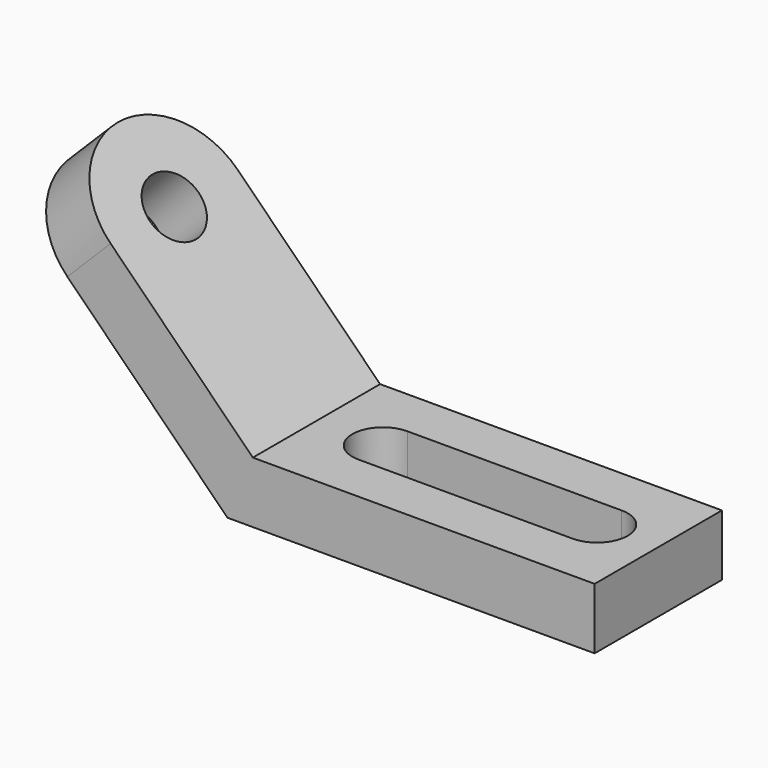
from build123d import *

# Parameters (mm, degrees)
F1_W     = 74
F1_H     = 52
F2_DEPTH = 20
F3_ANGLE = -45
F0_W     = 120
F0_H     = 52
F4_DEPTH = 20
F5_W     = 70
F5_H     = 20
F6_DEPTH = 20
F7_R     = 10
F8_DEPTH = 25


with BuildPart() as f2:
    # F1 (on face) → F2 (new body)
    with BuildSketch(Plane.XY):
        with Locations((-97, 0)):
            Rectangle(F1_W, F1_H)
        with BuildLine():
            Line((-134, -26), (-134, 26))
            ThreePointArc((-134, 26), (-160, 0), (-134, -26))
        make_face()
    extrude(amount=F2_DEPTH)


with BuildPart() as f2_1:
    # F3: moved
    add(f2.part.rotate(Axis((-60, 0, 0), (0, -1, 0)), F3_ANGLE))

    # F0 (on Top) → F4 (join)
    with BuildSketch(Plane.XY):
        Rectangle(F0_W, F0_H)
    extrude(amount=F4_DEPTH)

    # F5 (on face) → F6 (cut)
    with BuildSketch(Plane.XY.offset(20)):
        with Locations((5, 0)):
            Rectangle(F5_W, F5_H)
        with BuildLine():
            Line((-30, -10), (-30, 10))
            ThreePointArc((-30, 10), (-40, 0), (-30, -10))
        make_face()
        with BuildLine():
            ThreePointArc((40, -10), (50, 0), (40, 10))
            Line((40, 10), (40, -10))
        make_face()
    extrude(amount=-F6_DEPTH, mode=Mode.SUBTRACT)

    # F7 (on face) → F8 (cut)
    with BuildSketch(Plane(origin=(-15.857864, 0, -15.857864), x_dir=(0, 1, 0), z_dir=(0.707107, 0, 0.707107))):
        with Locations((0, 116.426407)):
            Circle(F7_R)
    extrude(amount=-F8_DEPTH, mode=Mode.SUBTRACT)


solid = f2_1.part
